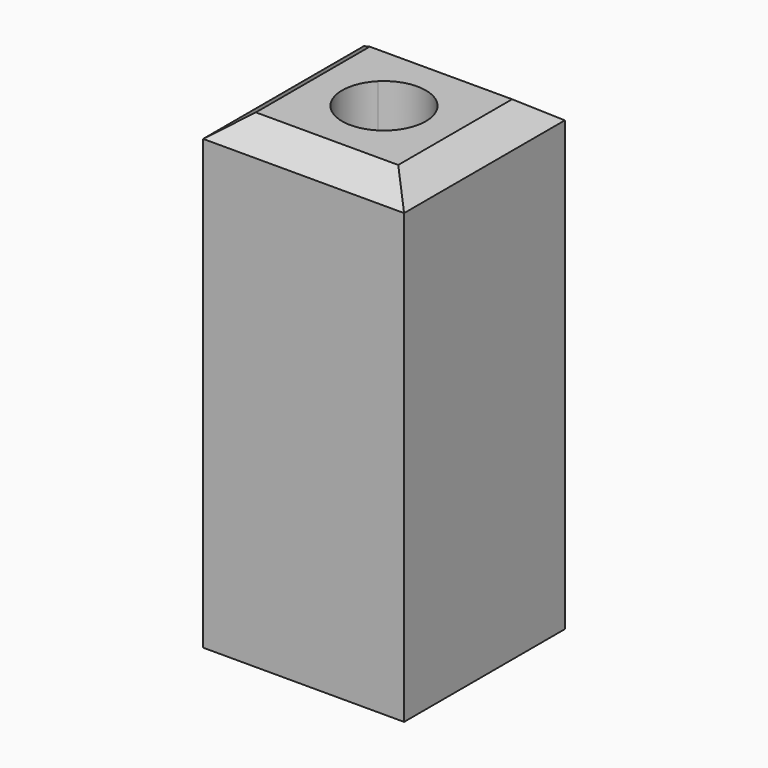
from build123d import *

# Parameters (mm, degrees)
F0_W     = 304.8
F0_H     = 304.8
F1_DEPTH = 711.2
F2_SIZE2 = 44.45
F2_SIZE  = 31.75
F4_DEPTH = 711.201


with BuildPart() as f1:
    # F0 (on Top) → F1 (new body)
    with BuildSketch(Plane.XY):
        with Locations((-152.4, 152.4)):
            Rectangle(F0_W, F0_H)
    extrude(amount=F1_DEPTH)

    # F2
    f2_edges = [f1.edges().sort_by_distance(p)[0] for p in [
        (-152.4, 0, 711.2),
        (0, 152.4, 711.2),
        (-152.4, 304.8, 711.2),
        (-304.8, 152.4, 711.2),
    ]]
    chamfer(f2_edges, length=F2_SIZE, length2=F2_SIZE2)

    # F3 (on face) → F4 (cut, through all)
    with BuildSketch(Plane.XY.offset(711.2)):
        with BuildLine():
            ThreePointArc((-88.9, 152.4), (-128.099602, 211.06635), (-197.301281, 197.301281))
            Line((-197.301281, 197.301281), (-107.498719, 107.498719))
            ThreePointArc((-107.498719, 107.498719), (-93.73365, 128.099602), (-88.9, 152.4))
        make_face()
        with BuildLine():
            Line((-107.498719, 107.498719), (-197.301281, 197.301281))
            ThreePointArc((-197.301281, 197.301281), (-197.301281, 107.498719), (-107.498719, 107.498719))
        make_face()
    extrude(amount=-F4_DEPTH, mode=Mode.SUBTRACT)


solid = f1.part
